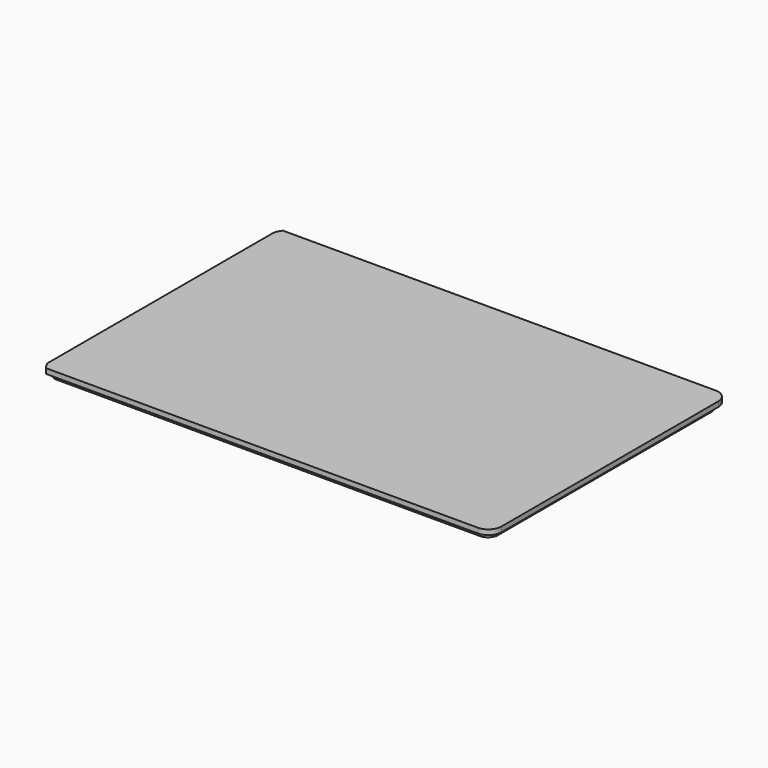
from build123d import *

# Parameters (mm, degrees)
PAD001_DEPTH    = 1
PAD008_DEPTH    = 1
SKETCH028_R     = 1.144433
POCKET014_DEPTH = 1


with BuildPart() as part:
    # Sketch013 → Pad001 (new body)
    with BuildSketch(Plane(origin=(0, 0, 1), x_dir=(1, 0, 0), z_dir=(0, 0, -1))):
        with BuildLine():
            Line((-43.791128, 29.5), (41.9, 29.5))
            ThreePointArc((44.5, 26.9), (43.738478, 28.738478), (41.9, 29.5))
            Line((44.5, 26.9), (44.5, -8))
            Line((44.5, -8), (44.5, -26.9))
            ThreePointArc((41.9, -29.5), (43.738478, -28.738478), (44.5, -26.9))
            Line((41.9, -29.5), (-43.993837, -29.5))
            ThreePointArc((-44.7, -28.066977), (-44.427413, -28.823154), (-43.993837, -29.5))
            Line((-44.7, -28.066977), (-44.7, 27.986088))
            ThreePointArc((-43.791128, 29.5), (-44.339824, 28.799633), (-44.7, 27.986088))
        make_face()
    extrude(amount=-PAD001_DEPTH)

    # Sketch (on Face8 of Pad001) → Pad008 (join)
    with BuildSketch(Plane(origin=(0, 0, 1), x_dir=(1, 0, 0), z_dir=(0, 0, -1))):
        with BuildLine():
            Line((-42.5, 28.5), (41.5, 28.5))
            ThreePointArc((43.5, 26.5), (42.914214, 27.914214), (41.5, 28.5))
            Line((43.5, 26.5), (43.5, -26.5))
            ThreePointArc((41.5, -28.5), (42.914214, -27.914214), (43.5, -26.5))
            Line((41.5, -28.5), (-42.5, -28.5))
            ThreePointArc((-44.5, -26.5), (-43.914214, -27.914214), (-42.5, -28.5))
            Line((-44.5, -26.5), (-44.5, 26.5))
            ThreePointArc((-42.5, 28.5), (-43.914214, 27.914214), (-44.5, 26.5))
        make_face()
    extrude(amount=PAD008_DEPTH)

    # Sketch028 (on Face19 of Pad008) → Pocket014 (cut)
    with BuildSketch(Plane(origin=(0, 0, 0), x_dir=(1, 0, 0), z_dir=(0, 0, -1))):
        with BuildLine():
            ThreePointArc((-28.239604, 20.682525), (-36.772568, -0.055356), (-28.16139, -20.760883))
            ThreePointArc((-31.495352, -24.403687), (-28.034523, -24.224048), (-28.16139, -20.760883))
            ThreePointArc((-31.441869, 24.45629), (-41.706794, 0.037508), (-31.495352, -24.403687))
            ThreePointArc((-28.239604, 20.682525), (-28.010921, 24.122116), (-31.441869, 24.45629))
        make_face()
        with BuildLine():
            ThreePointArc((-20.815283, 15.021339), (-27.551042, 0.307322), (-21.268036, -14.605646))
            ThreePointArc((-24.552994, -17.595228), (-21.393816, -17.766988), (-21.268036, -14.605646))
            ThreePointArc((-24.215721, 17.808685), (-31.954171, 0.178842), (-24.552994, -17.595228))
            ThreePointArc((-20.815283, 15.021339), (-21.261111, 17.945313), (-24.215721, 17.808685))
        make_face()
        with BuildLine():
            ThreePointArc((-13.536319, 7.856117), (-17.438434, 0.075734), (-13.740768, -7.803868))
            ThreePointArc((-16.96495, -11.074563), (-13.821902, -10.948401), (-13.740768, -7.803868))
            ThreePointArc((-16.837212, 11.183151), (-22.04722, 0.083828), (-16.96495, -11.074563))
            ThreePointArc((-13.536319, 7.856117), (-13.584742, 11.10907), (-16.837212, 11.183151))
        make_face()
        with BuildLine():
            ThreePointArc((4.243843, 18.27707), (-4.248678, 23.579205), (-10.782384, 15.993281))
            Line((-10.782384, 15.993281), (-10.782384, -13.42268))
            ThreePointArc((-10.782384, -13.42268), (-1.89675, -23.128113), (7.426263, -13.842029))
            ThreePointArc((7.426263, -13.842029), (19.95175, -3.341626), (11.392084, 10.582396))
            ThreePointArc((11.392084, 10.582396), (10.373826, 16.804092), (4.243843, 18.27707))
        make_face()
        with Locations((-4.272868, 13.992623)):
            Circle(SKETCH028_R, mode=Mode.SUBTRACT)
        with BuildLine():
            ThreePointArc((2.411883, 6.249422), (0.960031, 9.950894), (-2.428904, 12.030293))
            ThreePointArc((-1.741453, 13.60297), (-2.704463, 13.087334), (-2.428904, 12.030293))
            ThreePointArc((4.082151, 6.635487), (2.262958, 11.03246), (-1.741453, 13.60297))
            ThreePointArc((2.411883, 6.249422), (3.441947, 5.599114), (4.082151, 6.635487))
        make_face(mode=Mode.SUBTRACT)
    extrude(amount=-POCKET014_DEPTH, mode=Mode.SUBTRACT)


solid = part.part
